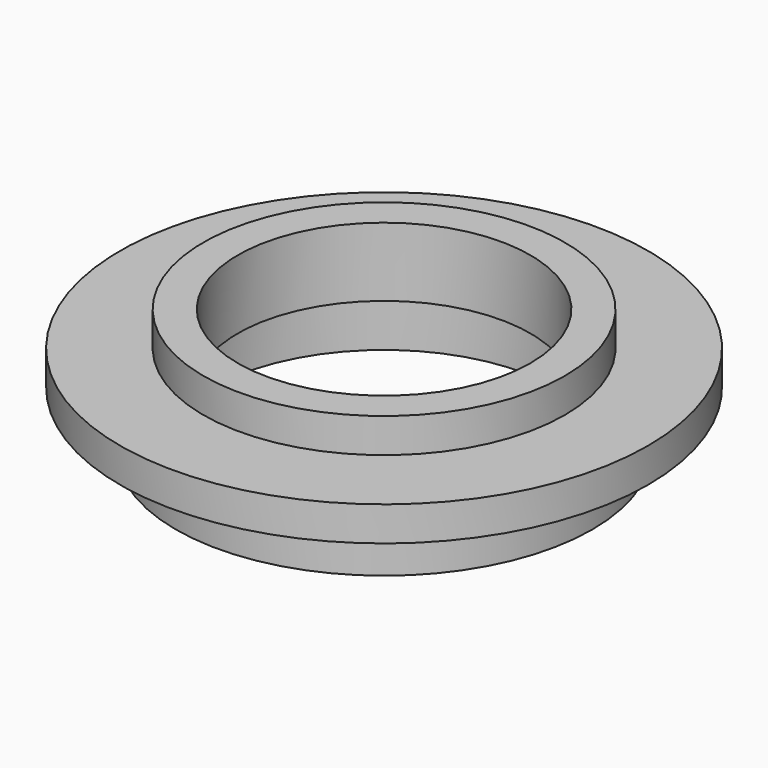
from build123d import *

# Parameters (mm, degrees)
F0_R     = 18.15
F0_R_2   = 15.125
F1_DEPTH = 5
F2_R     = 23
F2_R_2   = 18.15
F2_R_3   = 15.125
F2_R_4   = 12.75
F3_DEPTH = 3
F4_R     = 15.75
F4_R_2   = 12.75
F5_DEPTH = 3


with BuildPart() as f1:
    # F0 (on Top) → F1 (new body)
    with BuildSketch(Plane.XY):
        Circle(F0_R)
        Circle(F0_R_2, mode=Mode.SUBTRACT)
    extrude(amount=F1_DEPTH)

    # F2 (on face) → F3 (join)
    with BuildSketch(Plane.XY.offset(5)):
        Circle(F2_R)
        Circle(F2_R_2, mode=Mode.SUBTRACT)
        Circle(F2_R_2)
        Circle(F2_R_3, mode=Mode.SUBTRACT)
        Circle(F2_R_3)
        Circle(F2_R_4, mode=Mode.SUBTRACT)
    extrude(amount=F3_DEPTH)

    # F4 (on face) → F5 (join)
    with BuildSketch(Plane.XY.offset(8)):
        Circle(F4_R)
        Circle(F4_R_2, mode=Mode.SUBTRACT)
    extrude(amount=F5_DEPTH)


solid = f1.part
